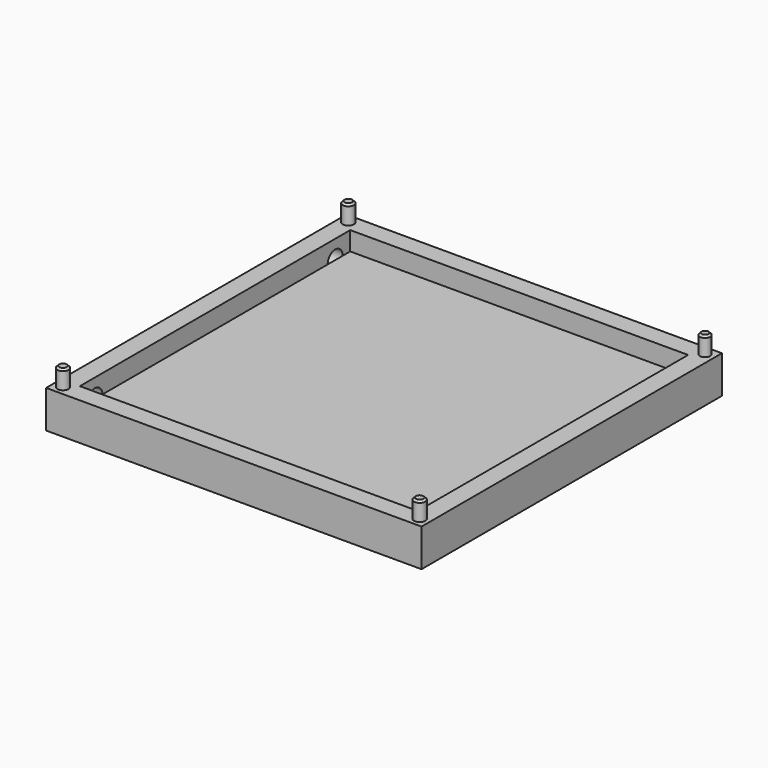
from build123d import *

# Parameters (mm, degrees)
F0_W     = 100
F0_H     = 100
F1_DEPTH = 10
F2_T     = -5
F3_R     = 1.499724
F3_R_2   = 1.5
F3_R_3   = 1.400261
F4_DEPTH = 5
F5_SIZE  = 0.5
F6_R     = 2.5
F7_DEPTH = 5


with BuildPart() as f1:
    # F0 (on Top) → F1 (new body)
    with BuildSketch(Plane.XY):
        Rectangle(F0_W, F0_H)
    extrude(amount=F1_DEPTH)

    # F2
    f2_openings = [f1.faces().sort_by_distance(p)[0] for p in [
        (0, 0, 10),
    ]]
    offset(amount=F2_T, openings=f2_openings)

    # F3 (on face) → F4 (join)
    with BuildSketch(Plane.XY.offset(10)):
        with Locations((-47.5, -47.5)):
            Circle(F3_R)
        with Locations((47.5, -47.5)):
            Circle(F3_R_2)
        with Locations((47.5, 47.5)):
            Circle(F3_R_3)
        with Locations((-47.5, 47.5)):
            Circle(F3_R_2)
    extrude(amount=F4_DEPTH)

    # F5
    f5_edges = [f1.edges().sort_by_distance(p)[0] for p in [
        (46.099739, 47.5, 15),
        (-49, 47.5, 15),
        (-48.999724, -47.5, 15),
        (46, -47.5, 15),
    ]]
    chamfer(f5_edges, length=F5_SIZE)

    # F6 (on face) → F7 (cut)
    with BuildSketch(Plane(origin=(-50, 0, 0), x_dir=(0, -1, 0), z_dir=(-1, 0, 0))):
        with Locations((40, 5)):
            Circle(F6_R)
        with Locations((-40, 5)):
            Circle(F6_R)
    extrude(amount=-F7_DEPTH, mode=Mode.SUBTRACT)


solid = f1.part
